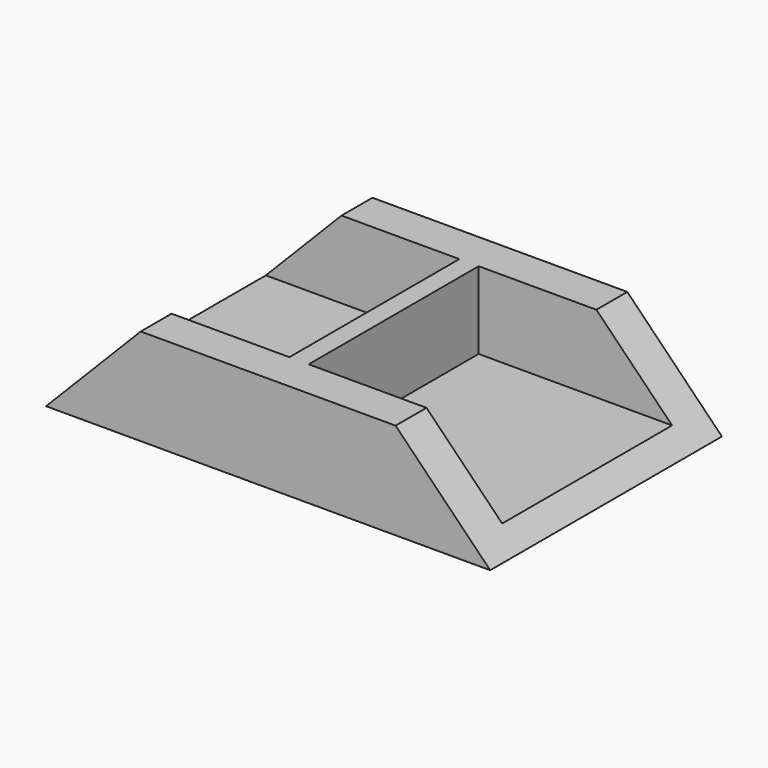
from build123d import *

# Parameters (mm, degrees)
F1_DEPTH = 15
F2_W     = 23
F2_H     = 11
F3_DEPTH = 4
F4_W     = 1
F4_H     = 11
F5_DEPTH = 4


with BuildPart() as f1:
    # F0 (on Front) → F1 (new body)
    with BuildSketch(Plane.XZ):
        Polygon((-6.555008, 5), (-11.455226, 0), (11.544774, 0), (6.644992, 5), align=None)
    extrude(amount=F1_DEPTH)

    # F2 (on face) → F3 (cut)
    with BuildSketch(Plane.XY.offset(5)):
        with Locations((0.044774, -7.5)):
            Rectangle(F2_W, F2_H)
    extrude(amount=-F3_DEPTH, mode=Mode.SUBTRACT)

    # F4 (on face) → F5 (join)
    with BuildSketch(Plane.XY.offset(1)):
        with Locations((0.044818, -7.5)):
            Rectangle(F4_W, F4_H)
    extrude(amount=F5_DEPTH)


solid = f1.part
